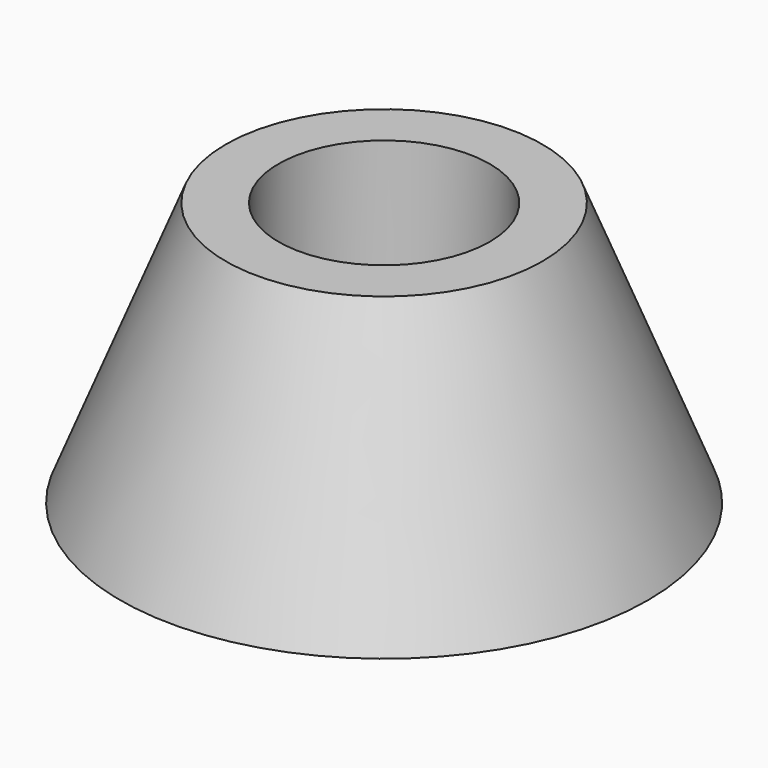
from build123d import *

# Parameters (mm, degrees)
CYLINDER001_R     = 8
CYLINDER001_DEPTH = 20
CYLINDER_R        = 11.2
CYLINDER_DEPTH    = 10


with BuildPart() as cylinder001:
    # Cylinder001 → Cylinder001 (new body)
    with BuildSketch(Plane.XY):
        Circle(CYLINDER001_R)
    extrude(amount=CYLINDER001_DEPTH)


with BuildPart() as cylinder:
    # Cylinder → Cylinder (new body)
    with BuildSketch(Plane.XY):
        Circle(CYLINDER_R)
    extrude(amount=CYLINDER_DEPTH)


with BuildPart() as cut001:
    # Cone → Cone (revolve)
    with BuildSketch(Plane.XZ):
        Polygon((0, 0), (20, 0), (12, 20), (0, 20), align=None)
    revolve(axis=Axis((0, 0, 0), (0, 0, 1)))

    # Cut: cut Cylinder
    add(cylinder.part, mode=Mode.SUBTRACT)

    # Cut001: cut Cylinder001
    add(cylinder001.part, mode=Mode.SUBTRACT)


solid = cut001.part
